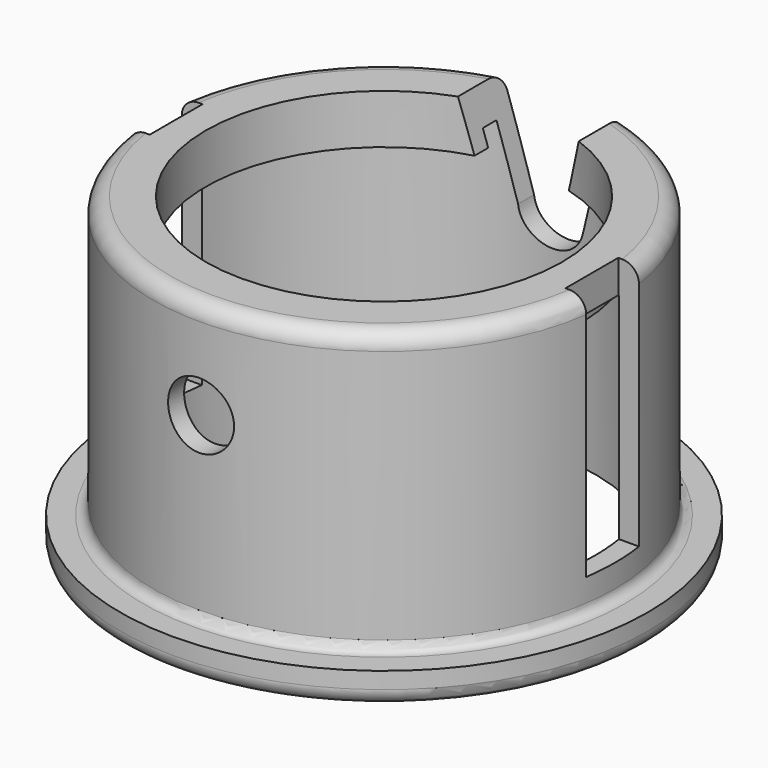
from build123d import *

# Parameters (mm, degrees)
BOX004_W               = 20
BOX004_H               = 20
BOX004_DEPTH           = 80
BOX003_W               = 20
BOX003_H               = 20
BOX003_DEPTH           = 80
BOX002_W               = 10
BOX002_H               = 25
BOX002_DEPTH           = 35
BOX002_PITCH_ANGLE     = -15
BOX001_W               = 10
BOX001_H               = 25
BOX001_DEPTH           = 35
BOX001_PITCH_ANGLE     = 15
BOX_W                  = 20
BOX_H                  = 25
BOX_DEPTH              = 35
CYLINDER005_R          = 10
CYLINDER005_DEPTH      = 180
CYLINDER005_ROLL_ANGLE = 90
CYLINDER004_R          = 54
CYLINDER004_DEPTH      = 100
CYLINDER003_R          = 59
CYLINDER003_DEPTH      = 10
CYLINDER002_R          = 64
CYLINDER002_DEPTH      = 85
CYLINDER001_R          = 70
CYLINDER001_DEPTH      = 90
CYLINDER_R             = 80
CYLINDER_DEPTH         = 10
FILLET_R               = 3
FILLET001_R            = 5
FILLET002_R            = 5


with BuildPart() as tab_cut_l:
    # Box004 → Box004 (new body)
    with BuildSketch(Plane(origin=(-83, -10, 20), x_dir=(1, 0, 0), z_dir=(0, 0, 1))):
        with Locations((10, 10)):
            Rectangle(BOX004_W, BOX004_H)
    extrude(amount=BOX004_DEPTH)


with BuildPart() as tab_cut_r:
    # Box003 → Box003 (new body)
    with BuildSketch(Plane(origin=(63, -10, 20), x_dir=(1, 0, 0), z_dir=(0, 0, 1))):
        with Locations((10, 10)):
            Rectangle(BOX003_W, BOX003_H)
    extrude(amount=BOX003_DEPTH)


with BuildPart() as cube001:
    # Box002 → Box002 (new body)
    with BuildSketch(Plane.XY):
        with Locations((5, 12.5)):
            Rectangle(BOX002_W, BOX002_H)
    extrude(amount=BOX002_DEPTH)


with BuildPart() as cube001_1:
    # Box002 pitch: moved
    add(cube001.part.rotate(Axis((0, 0, 0), (0, 1, 0)), BOX002_PITCH_ANGLE))


with BuildPart() as cube001_2:
    # Box002 placement: moved
    add(cube001_1.part.moved(Location((-9.95, 48, 64))))


with BuildPart() as cube:
    # Box001 → Box001 (new body)
    with BuildSketch(Plane.XY):
        with Locations((5, 12.5)):
            Rectangle(BOX001_W, BOX001_H)
    extrude(amount=BOX001_DEPTH)


with BuildPart() as cube_1:
    # Box001 pitch: moved
    add(cube.part.rotate(Axis((0, 0, 0), (0, 1, 0)), BOX001_PITCH_ANGLE))


with BuildPart() as cube_2:
    # Box001 placement: moved
    add(cube_1.part.moved(Location((0, 48, 65))))


with BuildPart() as bearing_slot:
    # Box → Box (new body)
    with BuildSketch(Plane(origin=(-10, 48, 65), x_dir=(1, 0, 0), z_dir=(0, 0, 1))):
        with Locations((10, 12.5)):
            Rectangle(BOX_W, BOX_H)
    extrude(amount=BOX_DEPTH)


with BuildPart() as bearing_holes:
    # Cylinder005 → Cylinder005 (new body)
    with BuildSketch(Plane.XY):
        Circle(CYLINDER005_R)
    extrude(amount=CYLINDER005_DEPTH)


with BuildPart() as bearing_holes_1:
    # Cylinder005 roll: moved
    add(bearing_holes.part.rotate(Axis((0, 0, 0), (1, 0, 0)), CYLINDER005_ROLL_ANGLE))


with BuildPart() as bearing_holes_2:
    # Cylinder005 placement: moved
    add(bearing_holes_1.part.moved(Location((0, 90, 65))))


with BuildPart() as through_hole:
    # Cylinder004 → Cylinder004 (new body)
    with BuildSketch(Plane.XY):
        Circle(CYLINDER004_R)
    extrude(amount=CYLINDER004_DEPTH)


with BuildPart() as inner_lip:
    # Cylinder003 → Cylinder003 (new body)
    with BuildSketch(Plane.XY.offset(80)):
        Circle(CYLINDER003_R)
    extrude(amount=CYLINDER003_DEPTH)


with BuildPart() as inner_hole:
    # Cylinder002 → Cylinder002 (new body)
    with BuildSketch(Plane.XY):
        Circle(CYLINDER002_R)
    extrude(amount=CYLINDER002_DEPTH)


with BuildPart() as body_cylinder:
    # Cylinder001 → Cylinder001 (new body)
    with BuildSketch(Plane.XY.offset(5)):
        Circle(CYLINDER001_R)
    extrude(amount=CYLINDER001_DEPTH)


with BuildPart() as cut007:
    # Cylinder → Cylinder (new body)
    with BuildSketch(Plane.XY):
        Circle(CYLINDER_R)
    extrude(amount=CYLINDER_DEPTH)

    # Fusion: union Body_Cylinder
    add(body_cylinder.part)

    # Cut: cut Inner_Hole
    add(inner_hole.part, mode=Mode.SUBTRACT)

    # Fusion001: union Inner_Lip
    add(inner_lip.part)

    # Cut001: cut Through_Hole
    add(through_hole.part, mode=Mode.SUBTRACT)

    # Fillet
    fillet_edges = [cut007.edges().sort_by_distance(p)[0] for p in [
        (-70, 0, 10),
    ]]
    fillet(fillet_edges, radius=FILLET_R)

    # Fillet001
    fillet001_edges = [cut007.edges().sort_by_distance(p)[0] for p in [
        (-80, 0, 0),
    ]]
    fillet(fillet001_edges, radius=FILLET001_R)

    # Fillet002
    fillet002_edges = [cut007.edges().sort_by_distance(p)[0] for p in [
        (-70, 0, 95),
    ]]
    fillet(fillet002_edges, radius=FILLET002_R)

    # Cut002: cut Bearing_Holes
    add(bearing_holes_2.part, mode=Mode.SUBTRACT)

    # Cut003: cut Bearing_Slot
    add(bearing_slot.part, mode=Mode.SUBTRACT)

    # Cut004: cut Cube
    add(cube_2.part, mode=Mode.SUBTRACT)

    # Cut005: cut Cube001
    add(cube001_2.part, mode=Mode.SUBTRACT)

    # Cut006: cut Tab_Cut_R
    add(tab_cut_r.part, mode=Mode.SUBTRACT)

    # Cut007: cut Tab_Cut_L
    add(tab_cut_l.part, mode=Mode.SUBTRACT)


solid = cut007.part
